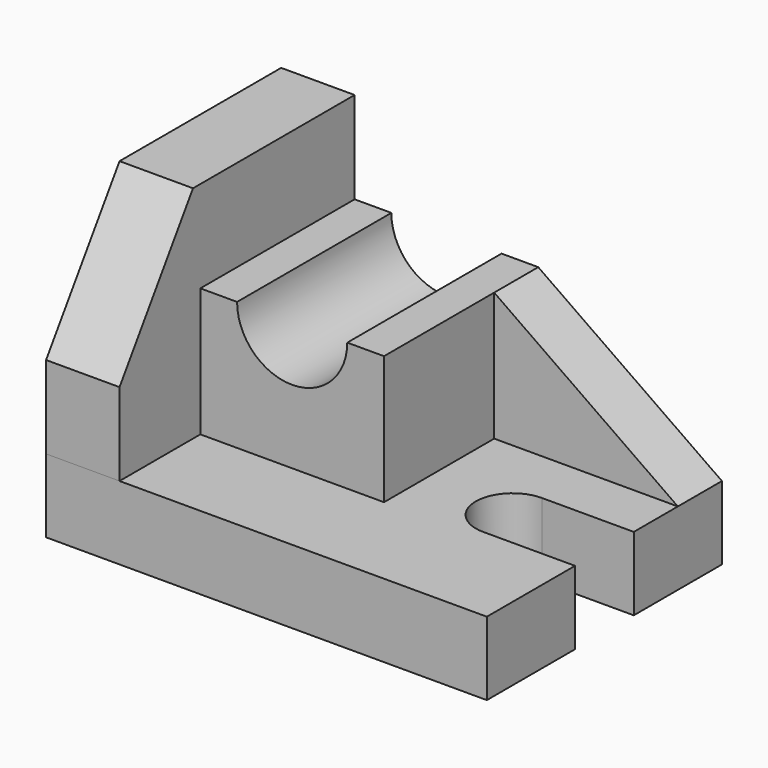
from build123d import *

# Parameters (mm, degrees)
F0_W     = 2438.4
F0_H     = 406.4
F1_DEPTH = 1625.6
F3_DEPTH = 304.8
F5_DEPTH = 406.4
F8_DEPTH = 1066.8
F9_DEPTH = 406.4


with BuildPart() as f1:
    # F0 (on Front) → F1 (new body)
    with BuildSketch(Plane.XZ):
        with Locations((1219.2, 203.2)):
            Rectangle(F0_W, F0_H)
    extrude(amount=-F1_DEPTH)

    # F4 (on face) → F5 (cut)
    with BuildSketch(Plane.XY.offset(406.4)):
        with BuildLine():
            Line((1930.4, 609.6), (2438.4, 609.6))
            Line((2438.4, 609.6), (2438.4, 1016))
            Line((2438.4, 1016), (1930.4, 1016))
            ThreePointArc((1930.4, 1016), (1727.2, 812.8), (1930.4, 609.6))
        make_face()
    extrude(amount=-F5_DEPTH, mode=Mode.SUBTRACT)

    # F7 (on face) → F8 (join)
    with BuildSketch(Plane(origin=(0, 1625.6, 0), x_dir=(-1, 0, 0), z_dir=(0, 1, 0))):
        with BuildLine():
            Line((-1422.391415, 1117.6), (-1422.391415, 406.4))
            Line((-1422.391415, 406.4), (-406.391415, 406.4))
            Line((-406.391415, 406.4), (-406.391415, 1117.6))
            Line((-406.391415, 1117.6), (-609.591415, 1117.6))
            ThreePointArc((-609.591415, 1117.6), (-914.391415, 812.8), (-1219.191415, 1117.6))
            Line((-1219.191415, 1117.6), (-1422.391415, 1117.6))
        make_face()
    extrude(amount=-F8_DEPTH)


with BuildPart() as f3:
    # F2 (on face) → F3 (new body)
    with BuildSketch(Plane(origin=(0, 1625.6, 0), x_dir=(-1, 0, 0), z_dir=(0, 1, 0))):
        Polygon((-1422.4, 1117.6), (-2438.4, 406.4), (-1422.4, 406.4), align=None)
    extrude(amount=-F3_DEPTH)


with BuildPart() as f9:
    # F6 (on face) → F9 (new body)
    with BuildSketch(Plane(origin=(0, 0, 0), x_dir=(0, -1, 0), z_dir=(-1, 0, 0))):
        Polygon((-1625.6, 1625.6), (-1625.6, 406.4), (0, 406.4), (0, 863.6), (-508, 1625.6), align=None)
    extrude(amount=-F9_DEPTH)


solid = Compound([f1.part, f3.part, f9.part])
